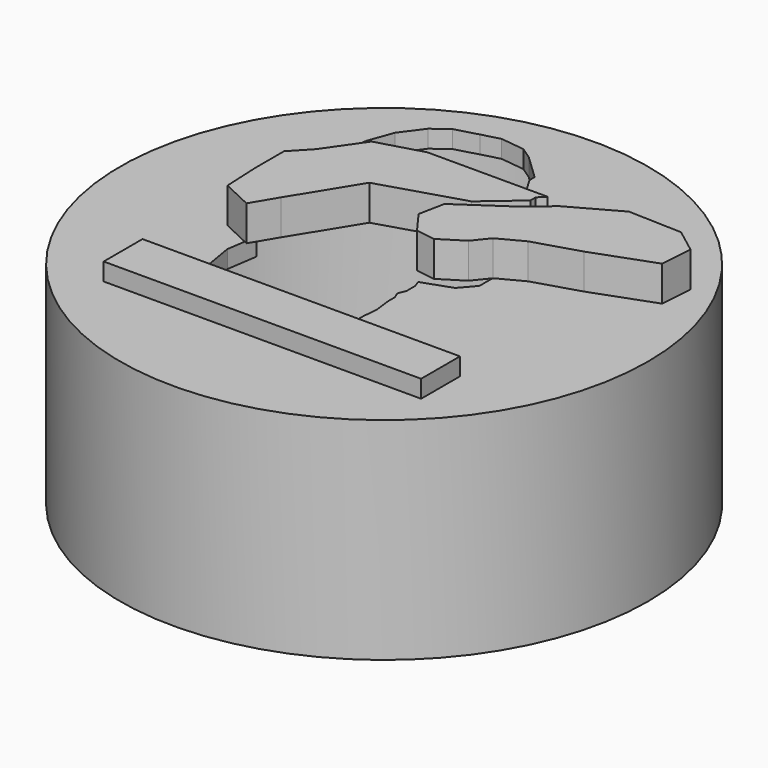
from build123d import *

# Parameters (mm, degrees)
F0_R      = 38.1
F1_DEPTH  = 30.48
F2_W      = 45.819147911
F2_H      = 7.0118308067
F3_DEPTH  = 2.54
F4_T      = -2.54
F8_DEPTH  = 9.906
F10_DEPTH = 5.08


with BuildPart() as f1:
    # F0 (on Top) → F1 (new body)
    with BuildSketch(Plane.XY):
        Circle(F0_R)
    extrude(amount=F1_DEPTH)

    # F2 (on face) → F3 (join)
    with BuildSketch(Plane.XY.offset(30.48)):
        with Locations((0.8893240733, -19.5669056848)):
            Rectangle(F2_W, F2_H)
    extrude(amount=F3_DEPTH)

    # F4 (hollow: no face is removed)
    offset(amount=F4_T, kind=Kind.INTERSECTION, mode=Mode.SUBTRACT)

    # F7 (on face) → F8 (cut)
    with BuildSketch(Plane.XY.offset(30.48)):
        Polygon((-15.4119321378, -12.1194338849), (-14.841485885, -15.7707315361), (5.0025711535, -15.7707315361), (6.1164895305, -14.8400934836), (6.1164895305, -11.340892916), (6.3189007342, -9.2710563913), (6.0210963711, -6.8141715601), (6.0048130108, -5.5709355934), (5.6325580226, -4.6775222713), (6.0792639852, -3.5607567247), (6.0792639852, -2.0221695727), (5.7286338997, -1.0273779467), (9.9040070724, 0.4442985472), (11.7219447857, 2.5462731296), (11.7219447857, 4.9659329975), (15.7423027558, 7.0877885023), (22.1039241878, 10.3067904288), (25.4188793848, 10.3067904288), (29.9926726737, 12.4215105659), (30.7439389297, 15.0509480497), (29.6866364668, 17.4833167877), (25.6525882866, 18.8981650481), (18.5155458163, 17.708657504), (16.6474783241, 16.844945549), (9.1134678884, 13.3615516624), (7.5662216179, 11.7286253879), (1.8378060551, 10.445210726), (1.149144816, 10.8521465371), (3.3716449027, 11.5721119727), (5.3750247236, 13.2937669913), (5.9697784957, 15.1093309904), (5.5432569709, 17.361162805), (5.2361546324, 17.7185181528), (2.1184887737, 17.7185181528), (1.3361625606, 21.336780861), (1.3361625606, 23.9771343768), (0, 26.2263249606), (0, 27.1613527107), (-3.5394631901, 30.5318216514), (-5.2709043957, 31.7105762661), (-8.7543707341, 32.132551074), (-11.3128684461, 31.4410664141), (-14.5628526807, 30.542133376), (-16.7756080627, 28.8825668395), (-19.0620572539, 25.78573856), (-20.3636531951, 22.1986565316), (-20.7315385342, 18.6494737864), (-19.479425624, 13.39059975), (-15.4119321378, 10.9802337791), (-19.0177896293, 7.0877885023), (-19.0177896293, 0.4442985472), (-15.4119321378, -3.7730513141), (-16.0732436925, -8.2028741017), align=None)
    extrude(amount=-F8_DEPTH, mode=Mode.SUBTRACT)

    # F9 (on face) → F10 (join)
    with BuildSketch(Plane.XY.offset(30.48)):
        Polygon((9.2707704753, 15.7535430044), (10.2326864312, 16.7216230184), (-7.1297219356, 16.7216230184), (-13.6908106506, 14.8423165083), (-17.4043960869, 9.4877332449), (-19.9085921049, 6.8410946988), (-19.9085921049, 1.7150167664), (-19.6581706405, -3.6766524427), (-15.2726136148, -5.7415137999), (-13.1471836939, -2.1741164383), (-7.5955540778, 6.8410946988), (4.2351128765, 10.4722213), (9.2707704753, 14.7913218218), align=None)
        Polygon((3.8815487642, 1.0813763365), (6.6431248561, 0.6791502237), (9.9622569978, 2.7536081616), (11.7555428296, 4.9633402377), (15.3087614144, 6.8410946988), (21.8024684188, 8.8341752525), (30.4993893951, 12.0195187628), (30.8451298624, 16.7216230184), (27.3877009749, 19.3492695689), (19.6581706405, 19.6126438677), (12.7007676991, 15.7535430044), (10.8933802694, 14.2285590991), (9.2707704753, 12.8604179814), (2.2486662492, 8.0840246186), (1.4972069766, 4.3447160861), align=None)
    extrude(amount=F10_DEPTH)


solid = f1.part
